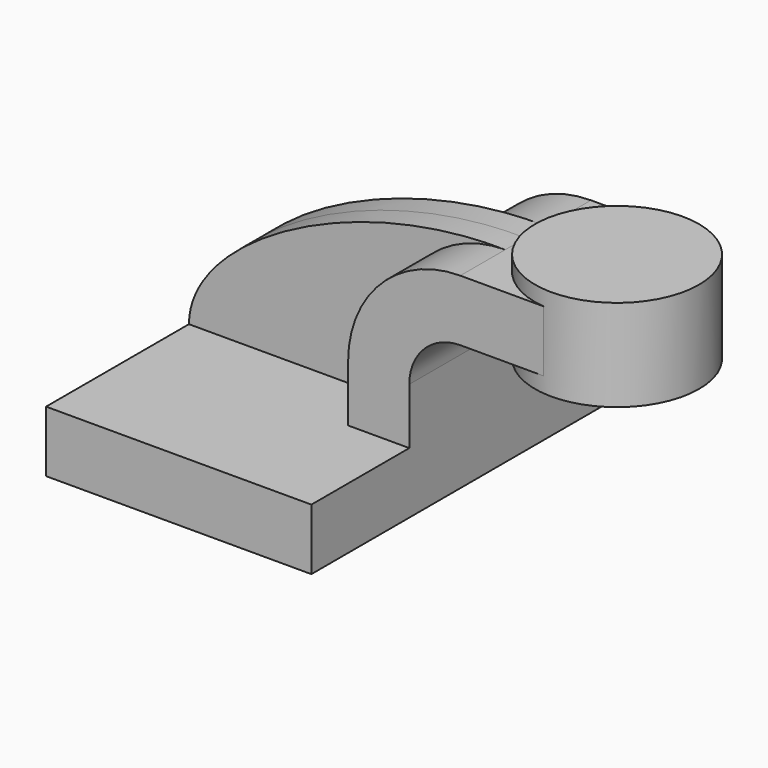
from build123d import *

# Parameters (mm, degrees)
F1_DEPTH = 63.5
F0_W     = 25.2737943477
F0_H     = 19.05
F2_DEPTH = 25.4
F3_DEPTH = 7.9375


with BuildPart() as f1:
    # F0 (on Front) → F1 (new body, symmetric)
    with BuildSketch(Plane.XZ):
        Polygon((-41.275, 9.525), (-41.275, -9.525), (41.275, -9.525), (41.275, 9.525), (22.225, 9.525), align=None)
    extrude(amount=F1_DEPTH, both=True)

    # F0 (on Front) → F2 (join, symmetric)
    with BuildSketch(Plane.XZ):
        with BuildLine():
            Line((22.225, 9.525), (41.275, 9.525))
            Line((41.275, 9.525), (41.275, 27.0002))
            ThreePointArc((41.275, 27.0002), (45.9246798487, 38.2255201513), (57.15, 42.8752))
            Line((57.15, 42.8752), (60.325, 42.8752))
            Line((60.325, 42.8752), (60.325, 61.9252))
            Line((60.325, 61.9252), (57.15, 61.9252))
            ThreePointArc((57.15, 61.9252), (32.4542956671, 51.6959043329), (22.225, 27.0002))
            Line((22.225, 27.0002), (22.225, 9.525))
        make_face()
        with Locations((72.9618971738, 52.4002)):
            Rectangle(F0_W, F0_H)
    extrude(amount=F2_DEPTH, both=True)

    # F0 (on Front) → F3 (join, symmetric)
    with BuildSketch(Plane.XZ):
        with BuildLine():
            add(Edge.make_bspline(
                [(-41.275, 9.525), (-41.1781184375, 34.5562882721), (9.094000794, 62.791056931), (57.15, 61.9252)],
                knots=[0, 0, 0, 0, 111.5045361635, 111.5045361635, 111.5045361635, 111.5045361635], degree=3))
            Line((-41.275, 9.525), (22.225, 9.525))
            Line((22.225, 9.525), (22.225, 27.0002))
            ThreePointArc((22.225, 27.0002), (32.4542956671, 51.6959043329), (57.15, 61.9252))
        make_face()
    extrude(amount=F3_DEPTH, both=True)

    # F0 (on Front) → F4 (revolve)
    with BuildSketch(Plane.XZ):
        Polygon((85.5987943477, 66.675), (85.5987943477, 61.9252), (85.5987943477, 42.8752), (85.5987943477, 38.1), (111.125, 38.1), (111.125, 66.675), align=None)
    revolve(axis=Axis((85.5987943477, 0, 52.3875), (0, 0, 1)))


solid = f1.part
